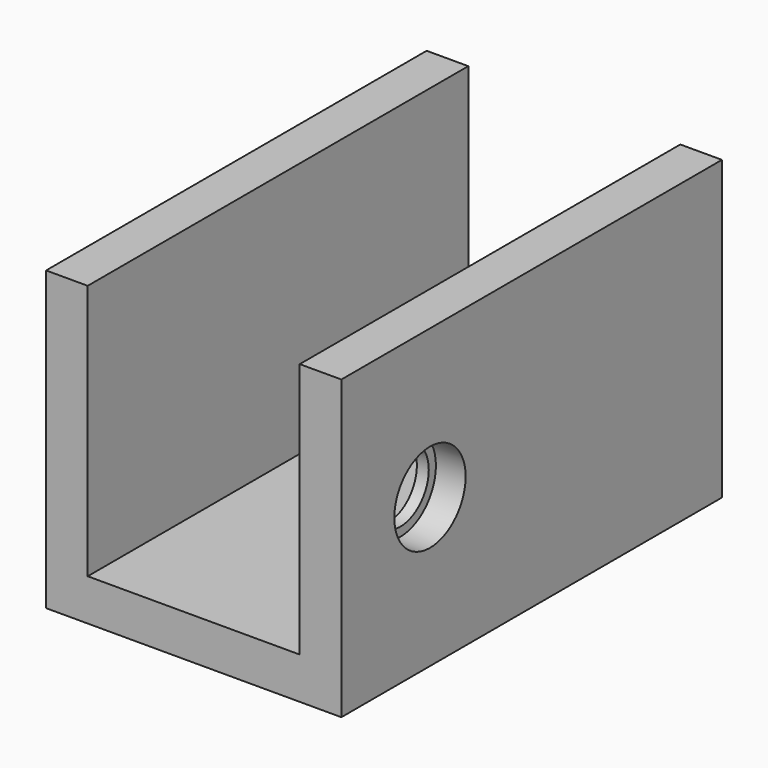
from build123d import *

# Parameters (mm, degrees)
F1_DEPTH = 80
F2_R     = 6
F3_DEPTH = 25
F2_R_2   = 7.5
F4_DEPTH = 5


with BuildPart() as f1:
    # F0 (on Front) → F1 (new body)
    with BuildSketch(Plane.XZ):
        Polygon((-17.282601, 35.120948), (-24.282601, 35.120948), (-24.282601, -14.879052), (25.373651, -14.879052), (25.373651, 35.120948), (18.373651, 35.120948), (18.373651, -7.879052), (-17.282601, -7.879052), align=None)
    extrude(amount=-F1_DEPTH)

    # F2 (on face) → F3 (cut)
    with BuildSketch(Plane.YZ.offset(25.373651)):
        with Locations((18.626541, 10.120948)):
            Circle(F2_R)
    extrude(amount=-F3_DEPTH, mode=Mode.SUBTRACT)

    # F2 (on face) → F4 (cut)
    with BuildSketch(Plane.YZ.offset(25.373651)):
        with Locations((18.626541, 10.120948)):
            Circle(F2_R_2)
        with Locations((18.626541, 10.120948)):
            Circle(F2_R, mode=Mode.SUBTRACT)
    extrude(amount=-F4_DEPTH, mode=Mode.SUBTRACT)


solid = f1.part
